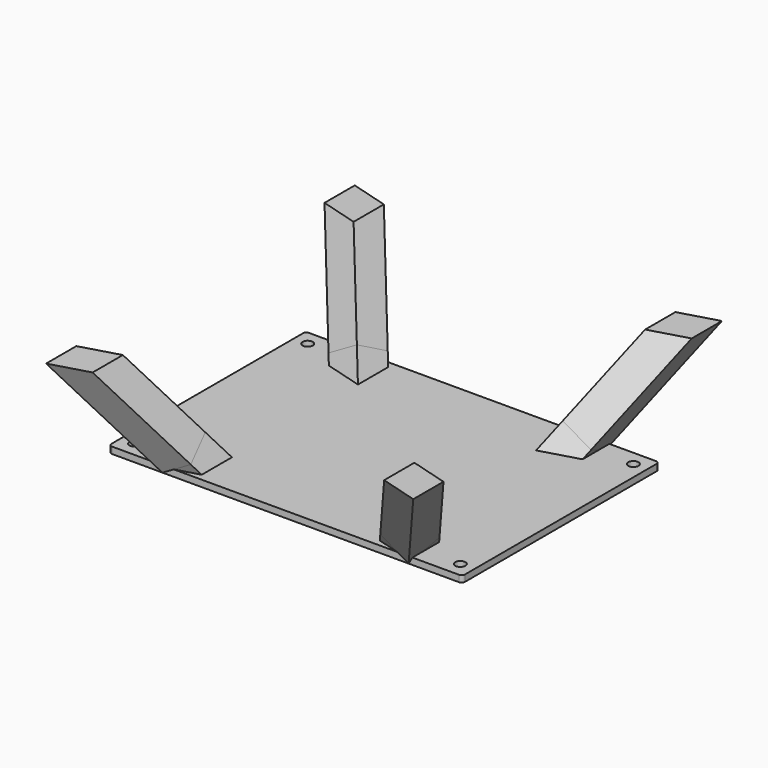
from build123d import *

# Parameters (mm, degrees)
SKETCH_W     = 108
SKETCH_H     = 75.2
PAD_DEPTH    = 2
SKETCH001_R  = 1.55
POCKET_DEPTH = 2
SKETCH002_W  = 10
SKETCH002_H  = 10
PAD001_DEPTH = 60
PAD002_DEPTH = 10
PAD003_DEPTH = 10
PAD004_DEPTH = 10
SKETCH003_W  = 10
SKETCH003_H  = 10
PAD005_DEPTH = 60
PAD006_DEPTH = 10
FILLET_R     = 1
FILLET001_R  = 1
FILLET002_R  = 1
FILLET003_R  = 1
BOX_W        = 108
BOX_H        = 75.2
BOX_DEPTH    = 10
BOX001_W     = 216
BOX001_H     = 150.4
BOX001_DEPTH = 30


with BuildPart() as part:
    # Sketch → Pad (new body)
    with BuildSketch(Plane.XY):
        Rectangle(SKETCH_W, SKETCH_H)
    extrude(amount=PAD_DEPTH)

    # Sketch001 (on Face6 of Pad) → Pocket (cut)
    with BuildSketch(Plane.XY.offset(2)):
        with Locations((-49.75, 33.05)):
            Circle(SKETCH001_R)
        with Locations((49.75, 33.05)):
            Circle(SKETCH001_R)
        with Locations((49.75, -33.05)):
            Circle(SKETCH001_R)
        with Locations((-49.75, -33.05)):
            Circle(SKETCH001_R)
    extrude(amount=-POCKET_DEPTH, mode=Mode.SUBTRACT)

    # Sketch002 (on Face5 of Pocket) → Pad001 (join)
    with BuildSketch(Plane(origin=(-14.437445, 5.037445, 35.081278), x_dir=(0.866025, 0, 0.5), z_dir=(-0.433013, 0.5, 0.75))):
        with Locations((-32.6, 32.6)):
            Rectangle(SKETCH002_W, SKETCH002_H)
    pad001 = extrude(amount=PAD001_DEPTH)

    # Mirrored: Pad001 across YZ
    add(pad001.mirror(Plane.YZ))

    # Mirrored001: Pad001 across XZ
    add(pad001.mirror(Plane.XZ))

    # Mirrored001 Face22 → Pad002 (add)
    with BuildSketch(Plane(origin=(34.284733, 32.964866, 5.00416), x_dir=(-0.755929, 0.654654, 0), z_dir=(-0.433013, -0.5, -0.75))):
        Polygon((3.146916, 4.541863), (-2.963185, 4.541863), (-7.030988, 1.019042), (-0.484451, -6.540247), (7.074838, 0.006289), align=None)
    extrude(amount=PAD002_DEPTH)

    # Pad002 Face21 → Pad003 (add)
    with BuildSketch(Plane(origin=(-34.284733, 32.964866, 5.00416), x_dir=(-0.755929, -0.654654, 0), z_dir=(0.433013, -0.5, -0.75))):
        Polygon((2.963185, 4.541863), (-3.146916, 4.541863), (-7.074838, 0.006289), (0.484451, -6.540247), (7.030988, 1.019042), align=None)
    extrude(amount=PAD003_DEPTH)

    # Pad003 Face35 → Pad004 (add)
    with BuildSketch(Plane(origin=(-34.284733, -32.964866, 5.00416), x_dir=(0.755929, -0.654654, 0), z_dir=(0.433013, 0.5, -0.75))):
        Polygon((3.146916, 4.541863), (-2.963185, 4.541863), (-7.030988, 1.019042), (-0.484451, -6.540247), (7.074838, 0.006289), align=None)
    extrude(amount=PAD004_DEPTH)

    # Sketch003 (on Face4 of Pad004) → Pad005 (join)
    with BuildSketch(Plane(origin=(14.437445, -5.037445, 35.081278), x_dir=(0.866025, 0, -0.5), z_dir=(0.433013, -0.5, 0.75))):
        with Locations((32.6, -32.6)):
            Rectangle(SKETCH003_W, SKETCH003_H)
    extrude(amount=PAD005_DEPTH)

    # Pad005 Face44 → Pad006 (add)
    with BuildSketch(Plane(origin=(34.284733, -32.964866, 5.00416), x_dir=(0.755929, 0.654654, 0), z_dir=(-0.433013, 0.5, -0.75))):
        Polygon((-7.074838, 0.006289), (0.484451, -6.540247), (7.030988, 1.019042), (2.963185, 4.541863), (-3.146916, 4.541863), align=None)
    extrude(amount=PAD006_DEPTH)

    # Fillet
    fillet_edges = [part.edges().sort_by_distance(p)[0] for p in [
        (-54, -37.6, 1),
    ]]
    fillet(fillet_edges, radius=FILLET_R)

    # Fillet001
    fillet001_edges = [part.edges().sort_by_distance(p)[0] for p in [
        (-54, 37.6, 1),
    ]]
    fillet(fillet001_edges, radius=FILLET001_R)

    # Fillet002
    fillet002_edges = [part.edges().sort_by_distance(p)[0] for p in [
        (54, -37.6, 1),
    ]]
    fillet(fillet002_edges, radius=FILLET002_R)

    # Fillet003
    fillet003_edges = [part.edges().sort_by_distance(p)[0] for p in [
        (54, 37.6, 1),
    ]]
    fillet(fillet003_edges, radius=FILLET003_R)

    # Box → Box (cut)
    with BuildSketch(Plane(origin=(-54, 37.6, 0), x_dir=(1, 0, 0), z_dir=(0, 0, -1))):
        with Locations((54, 37.6)):
            Rectangle(BOX_W, BOX_H)
    extrude(amount=BOX_DEPTH, mode=Mode.SUBTRACT)

    # Box001 → Box001 (cut)
    with BuildSketch(Plane(origin=(-108, -75.2, 32), x_dir=(1, 0, 0), z_dir=(0, 0, 1))):
        with Locations((108, 75.2)):
            Rectangle(BOX001_W, BOX001_H)
    extrude(amount=BOX001_DEPTH, mode=Mode.SUBTRACT)


solid = part.part
